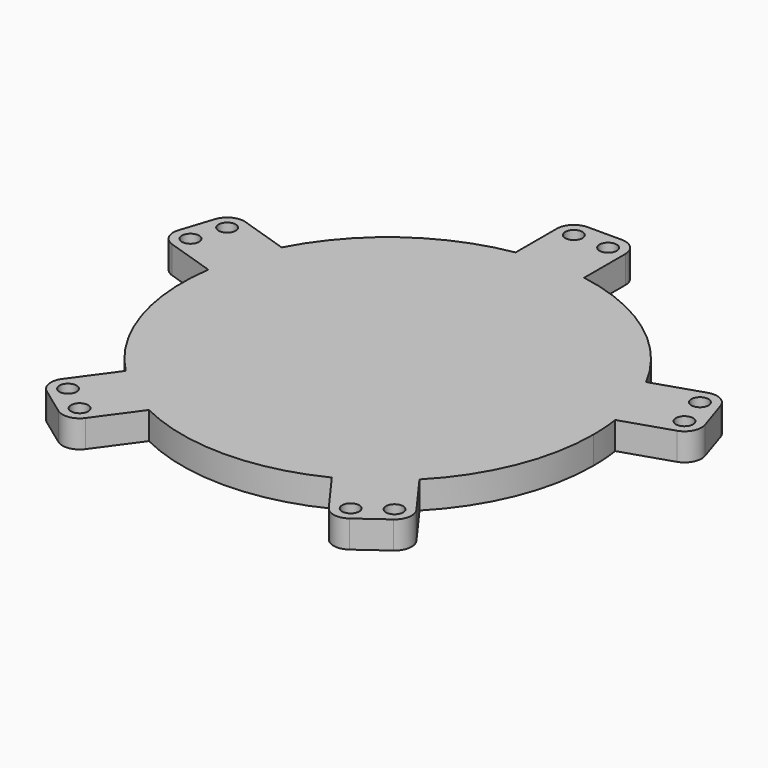
from build123d import *

# Parameters (mm, degrees)
F0_R     = 1.5875
F1_DEPTH = 5.08
F2_DEPTH = 5.08


with BuildPart() as f1:
    # F0 (on Top) → F1 (new body)
    with BuildSketch(Plane.XY):
        with BuildLine():
            ThreePointArc((27.218649, -26.659991), (35.274924, -14.39756), (38.1, 0))
            ThreePointArc((38.1, 0), (37.997537, 2.792342), (37.690699, 5.569665))
            ThreePointArc((37.690699, 5.569665), (36.235253, 11.773547), (33.766184, 17.648083))
            ThreePointArc((33.766184, 17.648083), (22.394618, 30.823547), (6.35, 37.567107))
            ThreePointArc((6.35, 37.567107), (0, 38.1), (-6.35, 37.567107))
            ThreePointArc((-6.35, 37.567107), (-22.394618, 30.823547), (-33.766184, 17.648083))
            ThreePointArc((-33.766184, 17.648083), (-36.235253, 11.773547), (-37.690699, 5.569665))
            ThreePointArc((-37.690699, 5.569665), (-36.235253, -11.773547), (-27.218649, -26.659991))
            ThreePointArc((-27.218649, -26.659991), (-22.394618, -30.823547), (-16.944133, -34.124864))
            ThreePointArc((-16.944133, -34.124864), (0, -38.1), (16.944133, -34.124864))
            ThreePointArc((16.944133, -34.124864), (22.394618, -30.823547), (27.218649, -26.659991))
        make_face()
        with BuildLine():
            ThreePointArc((33.766184, 17.648083), (36.235253, 11.773547), (37.690699, 5.569665))
            Line((37.690699, 5.569665), (46.749513, 8.513052))
            ThreePointArc((46.749513, 8.513052), (48.59733, 10.091237), (48.787988, 12.513786))
            Line((48.787988, 12.513786), (46.82573, 18.552995))
            ThreePointArc((46.82573, 18.552995), (45.247546, 20.400811), (42.824997, 20.59147))
            Line((42.824997, 20.59147), (33.766184, 17.648083))
        make_face()
        with Locations((45.768384, 11.532657)):
            Circle(F0_R, mode=Mode.SUBTRACT)
        with Locations((43.806126, 17.571866)):
            Circle(F0_R, mode=Mode.SUBTRACT)
        with BuildLine():
            Line((32.817304, -34.365878), (27.218649, -26.659991))
            ThreePointArc((27.218649, -26.659991), (22.394618, -30.823547), (16.944133, -34.124864))
            Line((16.944133, -34.124864), (22.542788, -41.830751))
            ThreePointArc((22.542788, -41.830751), (24.614737, -43.100443), (26.977635, -42.533162))
            Line((26.977635, -42.533162), (32.114893, -38.800725))
            ThreePointArc((32.114893, -38.800725), (33.384585, -36.728776), (32.817304, -34.365878))
        make_face()
        with Locations((25.111417, -39.964533)):
            Circle(F0_R, mode=Mode.SUBTRACT)
        with Locations((30.248675, -36.232096)):
            Circle(F0_R, mode=Mode.SUBTRACT)
        with BuildLine():
            ThreePointArc((-6.35, 37.567107), (0, 38.1), (6.35, 37.567107))
            Line((6.35, 37.567107), (6.35, 47.092107))
            ThreePointArc((6.35, 47.092107), (5.420064, 49.337171), (3.175, 50.267107))
            Line((3.175, 50.267107), (-3.175, 50.267107))
            ThreePointArc((-3.175, 50.267107), (-5.420064, 49.337171), (-6.35, 47.092107))
            Line((-6.35, 47.092107), (-6.35, 37.567107))
        make_face()
        with Locations((-3.175, 47.092107)):
            Circle(F0_R, mode=Mode.SUBTRACT)
        with Locations((3.175, 47.092107)):
            Circle(F0_R, mode=Mode.SUBTRACT)
        with BuildLine():
            Line((-22.542788, -41.830751), (-16.944133, -34.124864))
            ThreePointArc((-16.944133, -34.124864), (-22.394618, -30.823547), (-27.218649, -26.659991))
            Line((-27.218649, -26.659991), (-32.817304, -34.365878))
            ThreePointArc((-32.817304, -34.365878), (-33.384585, -36.728776), (-32.114893, -38.800725))
            Line((-32.114893, -38.800725), (-26.977635, -42.533162))
            ThreePointArc((-26.977635, -42.533162), (-24.614737, -43.100443), (-22.542788, -41.830751))
        make_face()
        with Locations((-25.111417, -39.964533)):
            Circle(F0_R, mode=Mode.SUBTRACT)
        with Locations((-30.248675, -36.232096)):
            Circle(F0_R, mode=Mode.SUBTRACT)
        with BuildLine():
            ThreePointArc((-37.690699, 5.569665), (-36.235253, 11.773547), (-33.766184, 17.648083))
            Line((-33.766184, 17.648083), (-42.824997, 20.59147))
            ThreePointArc((-42.824997, 20.59147), (-45.247546, 20.400811), (-46.82573, 18.552995))
            Line((-46.82573, 18.552995), (-48.787988, 12.513786))
            ThreePointArc((-48.787988, 12.513786), (-48.59733, 10.091237), (-46.749513, 8.513052))
            Line((-46.749513, 8.513052), (-37.690699, 5.569665))
        make_face()
        with Locations((-45.768384, 11.532657)):
            Circle(F0_R, mode=Mode.SUBTRACT)
        with Locations((-43.806126, 17.571866)):
            Circle(F0_R, mode=Mode.SUBTRACT)
    extrude(amount=F1_DEPTH)

    # F0 (on Top) → F2 (cut)
    with BuildSketch(Plane.XY):
        with BuildLine():
            ThreePointArc((27.218649, -26.659991), (35.274924, -14.39756), (38.1, 0))
            ThreePointArc((38.1, 0), (37.997537, 2.792342), (37.690699, 5.569665))
            ThreePointArc((37.690699, 5.569665), (36.235253, 11.773547), (33.766184, 17.648083))
            ThreePointArc((33.766184, 17.648083), (22.394618, 30.823547), (6.35, 37.567107))
            ThreePointArc((6.35, 37.567107), (0, 38.1), (-6.35, 37.567107))
            ThreePointArc((-6.35, 37.567107), (-22.394618, 30.823547), (-33.766184, 17.648083))
            ThreePointArc((-33.766184, 17.648083), (-36.235253, 11.773547), (-37.690699, 5.569665))
            ThreePointArc((-37.690699, 5.569665), (-36.235253, -11.773547), (-27.218649, -26.659991))
            ThreePointArc((-27.218649, -26.659991), (-22.394618, -30.823547), (-16.944133, -34.124864))
            ThreePointArc((-16.944133, -34.124864), (0, -38.1), (16.944133, -34.124864))
            ThreePointArc((16.944133, -34.124864), (22.394618, -30.823547), (27.218649, -26.659991))
        make_face()
        with BuildLine():
            ThreePointArc((33.766184, 17.648083), (36.235253, 11.773547), (37.690699, 5.569665))
            Line((37.690699, 5.569665), (46.749513, 8.513052))
            ThreePointArc((46.749513, 8.513052), (48.59733, 10.091237), (48.787988, 12.513786))
            Line((48.787988, 12.513786), (46.82573, 18.552995))
            ThreePointArc((46.82573, 18.552995), (45.247546, 20.400811), (42.824997, 20.59147))
            Line((42.824997, 20.59147), (33.766184, 17.648083))
        make_face()
        with Locations((45.768384, 11.532657)):
            Circle(F0_R, mode=Mode.SUBTRACT)
        with Locations((43.806126, 17.571866)):
            Circle(F0_R, mode=Mode.SUBTRACT)
        with BuildLine():
            Line((32.817304, -34.365878), (27.218649, -26.659991))
            ThreePointArc((27.218649, -26.659991), (22.394618, -30.823547), (16.944133, -34.124864))
            Line((16.944133, -34.124864), (22.542788, -41.830751))
            ThreePointArc((22.542788, -41.830751), (24.614737, -43.100443), (26.977635, -42.533162))
            Line((26.977635, -42.533162), (32.114893, -38.800725))
            ThreePointArc((32.114893, -38.800725), (33.384585, -36.728776), (32.817304, -34.365878))
        make_face()
        with Locations((25.111417, -39.964533)):
            Circle(F0_R, mode=Mode.SUBTRACT)
        with Locations((30.248675, -36.232096)):
            Circle(F0_R, mode=Mode.SUBTRACT)
        with BuildLine():
            ThreePointArc((-6.35, 37.567107), (0, 38.1), (6.35, 37.567107))
            Line((6.35, 37.567107), (6.35, 47.092107))
            ThreePointArc((6.35, 47.092107), (5.420064, 49.337171), (3.175, 50.267107))
            Line((3.175, 50.267107), (-3.175, 50.267107))
            ThreePointArc((-3.175, 50.267107), (-5.420064, 49.337171), (-6.35, 47.092107))
            Line((-6.35, 47.092107), (-6.35, 37.567107))
        make_face()
        with Locations((-3.175, 47.092107)):
            Circle(F0_R, mode=Mode.SUBTRACT)
        with Locations((3.175, 47.092107)):
            Circle(F0_R, mode=Mode.SUBTRACT)
        with BuildLine():
            Line((-22.542788, -41.830751), (-16.944133, -34.124864))
            ThreePointArc((-16.944133, -34.124864), (-22.394618, -30.823547), (-27.218649, -26.659991))
            Line((-27.218649, -26.659991), (-32.817304, -34.365878))
            ThreePointArc((-32.817304, -34.365878), (-33.384585, -36.728776), (-32.114893, -38.800725))
            Line((-32.114893, -38.800725), (-26.977635, -42.533162))
            ThreePointArc((-26.977635, -42.533162), (-24.614737, -43.100443), (-22.542788, -41.830751))
        make_face()
        with Locations((-25.111417, -39.964533)):
            Circle(F0_R, mode=Mode.SUBTRACT)
        with Locations((-30.248675, -36.232096)):
            Circle(F0_R, mode=Mode.SUBTRACT)
        with BuildLine():
            ThreePointArc((-37.690699, 5.569665), (-36.235253, 11.773547), (-33.766184, 17.648083))
            Line((-33.766184, 17.648083), (-42.824997, 20.59147))
            ThreePointArc((-42.824997, 20.59147), (-45.247546, 20.400811), (-46.82573, 18.552995))
            Line((-46.82573, 18.552995), (-48.787988, 12.513786))
            ThreePointArc((-48.787988, 12.513786), (-48.59733, 10.091237), (-46.749513, 8.513052))
            Line((-46.749513, 8.513052), (-37.690699, 5.569665))
        make_face()
        with Locations((-45.768384, 11.532657)):
            Circle(F0_R, mode=Mode.SUBTRACT)
        with Locations((-43.806126, 17.571866)):
            Circle(F0_R, mode=Mode.SUBTRACT)
    extrude(amount=-F2_DEPTH, mode=Mode.SUBTRACT)


solid = f1.part
